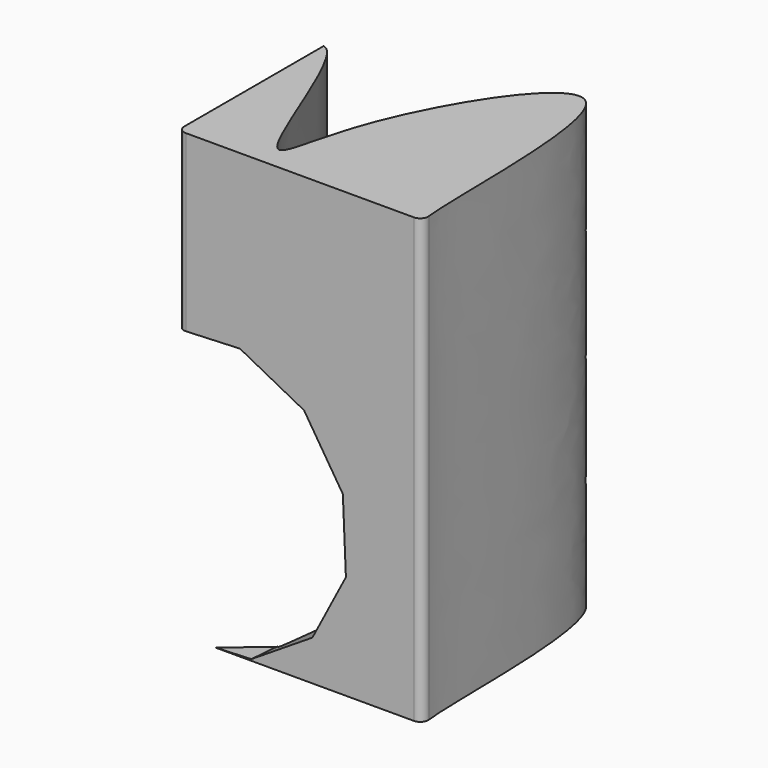
from build123d import *

# Parameters (mm, degrees)
F1_DEPTH = 177.8
F3_DEPTH = 254
F3_TAPER = -3


with BuildPart() as f1:
    # F0 (on Top) → F1 (new body)
    with BuildSketch(Plane.XY):
        with BuildLine():
            add(Edge.make_bspline(
                [(-67.3885593742, 12.9356722599), (-59.0465416425, 12.1528384674), (-32.2707868024, -76.8000150755), (-30.0001551072, -17.8692297072), (34.5471698729, 84.6417041824), (28.3569236155, -37.8965707865), (30.4384071088, -56.5624558944)],
                knots=[0, 0, 0, 0, 0.2604277323, 0.4302227628, 0.6952612142, 0.9778012896, 0.9778012896, 0.9778012896, 0.9778012896], degree=3))
            Line((-67.3885593742, 12.9356722599), (-67.3885593742, -56.9143277401))
            ThreePointArc((-67.3885593742, -56.9143277401), (-66.4586234045, -59.1593917704), (-64.2135593742, -60.0893277401))
            Line((-64.2135593742, -60.0893277401), (27.282965586, -60.0893277401))
            ThreePointArc((27.282965586, -60.0893277401), (29.6491669838, -59.031334104), (30.4384071088, -56.5624558944))
        make_face()
    extrude(amount=F1_DEPTH)

    # F2 (on face) → F3 (cut)
    with BuildSketch(Plane.XZ.offset(60.0893277401)):
        Polygon((-64.2135593742, 0), (-64.2135593742, 107.8289228659), (-71.4398649842, 107.5232396894), (-95.917720614, 91.9757827925), (-109.3424369711, 66.2723623407), (-108.1168721491, 37.3001890867), (-92.5694152522, 12.8223334569), (-66.8659948004, -0.6023829002), (-52.6257510897, 0), align=None)
        Polygon((-16.7642712784, 95.3240881544), (-42.4676917302, 108.7488045115), (-64.2135593742, 107.8289228659), (-64.2135593742, 0), (-52.6257510897, 0), (-37.8938215464, 0.6231819219), (-13.4159659166, 16.1706388188), (0.0087504405, 41.8740592706), (-1.2168143815, 70.8462325246), align=None)
    extrude(amount=-F3_DEPTH, taper=F3_TAPER, mode=Mode.SUBTRACT)


solid = f1.part
